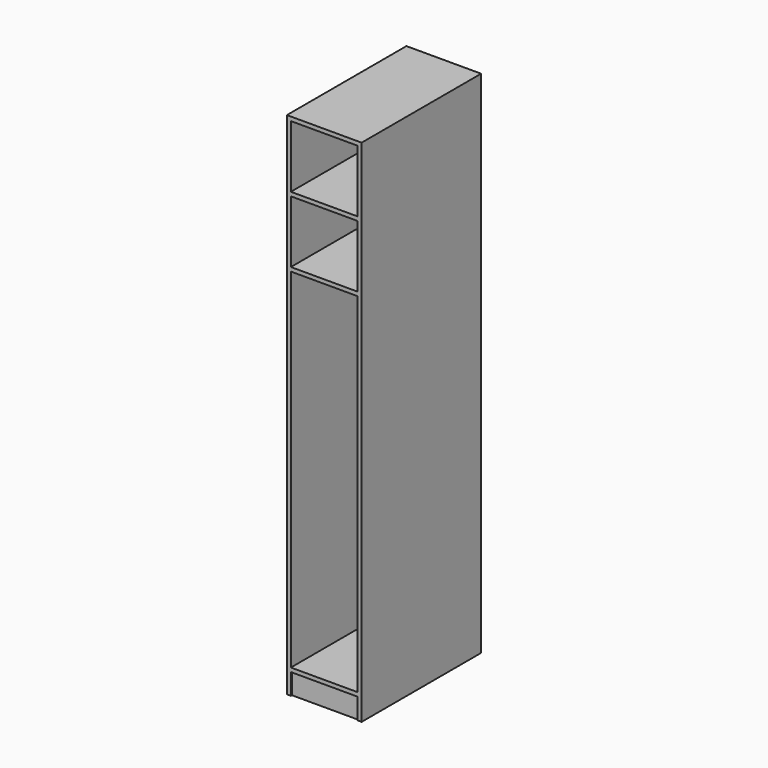
from build123d import *

# Parameters (mm, degrees)
F0_W     = 268
F0_H     = 84
F0_H_2   = 1400
F0_H_3   = 16
F0_H_4   = 250
F1_DEPTH = 16
F2_DEPTH = 584
F3_W     = 268
F3_H     = 16
F4_DEPTH = 84


with BuildPart() as f1:
    # F0 (on Front) → F1 (new body)
    with BuildSketch(Plane.XZ):
        Polygon((-16, 0), (0, 0), (0, 2048), (-300, 2048), (-300, 0), (-284, 0), (-284, 84), (-16, 84), align=None)
        Polygon((-16, 100), (-284, 100), (-284, 1500), (-284, 1516), (-284, 1766), (-284, 1782), (-284, 2032), (-16, 2032), (-16, 1782), (-16, 1766), (-16, 1516), (-16, 1500), align=None, mode=Mode.SUBTRACT)
        with Locations((-150, 42)):
            Rectangle(F0_W, F0_H)
        with Locations((-150, 800)):
            Rectangle(F0_W, F0_H_2)
        with Locations((-150, 1508)):
            Rectangle(F0_W, F0_H_3)
        with Locations((-150, 1641)):
            Rectangle(F0_W, F0_H_4)
        with Locations((-150, 1774)):
            Rectangle(F0_W, F0_H_3)
        with Locations((-150, 1907)):
            Rectangle(F0_W, F0_H_4)
    extrude(amount=-F1_DEPTH)

    # F0 (on Front) → F2 (join)
    with BuildSketch(Plane.XZ):
        Polygon((-16, 0), (0, 0), (0, 2048), (-300, 2048), (-300, 0), (-284, 0), (-284, 84), (-16, 84), align=None)
        Polygon((-16, 100), (-284, 100), (-284, 1500), (-284, 1516), (-284, 1766), (-284, 1782), (-284, 2032), (-16, 2032), (-16, 1782), (-16, 1766), (-16, 1516), (-16, 1500), align=None, mode=Mode.SUBTRACT)
        with Locations((-150, 1508)):
            Rectangle(F0_W, F0_H_3)
        with Locations((-150, 1774)):
            Rectangle(F0_W, F0_H_3)
    extrude(amount=F2_DEPTH)

    # F3 (on face) → F4 (join, through all)
    with BuildSketch(Plane(origin=(0, 0, 84), x_dir=(1, 0, 0), z_dir=(0, 0, -1))):
        with Locations((-150, 571)):
            Rectangle(F3_W, F3_H)
    extrude(amount=F4_DEPTH)


solid = f1.part
